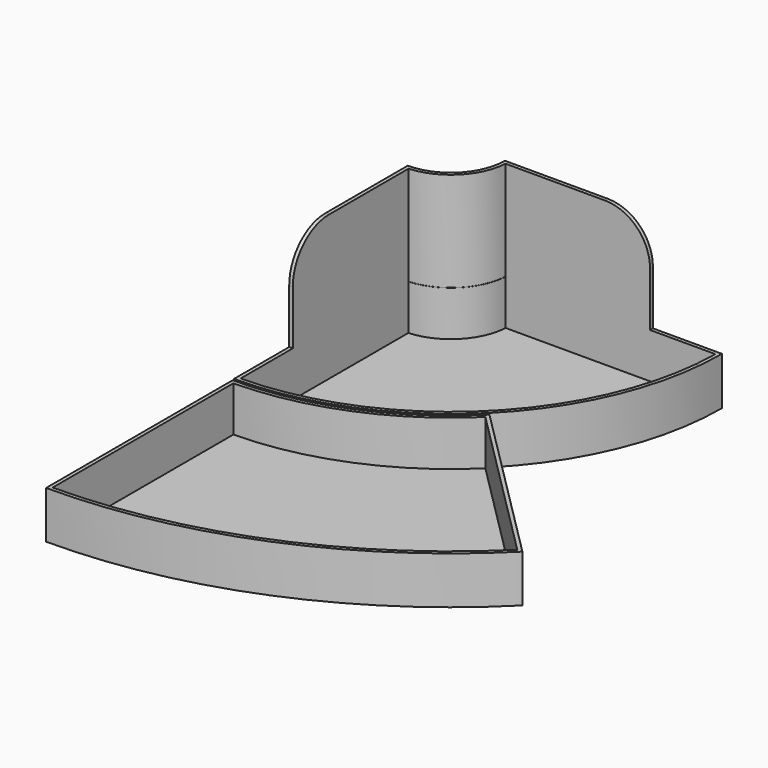
from build123d import *

# Parameters (mm, degrees)
F1_DEPTH = 1.5
F3_DEPTH = 25
F5_DEPTH = 1.2
F7_DEPTH = 25
F9_DEPTH = 80
F10_R    = 25


with BuildPart() as f1:
    # F0 (on Top) → F1 (new body)
    with BuildSketch(Plane.XY):
        with BuildLine():
            ThreePointArc((30, 200), (21.213203, 178.786797), (0, 170))
            Line((0, 170), (0, 50))
            ThreePointArc((0, 50), (106.066017, 93.933983), (150, 200))
            Line((150, 200), (30, 200))
        make_face()
    extrude(amount=F1_DEPTH)

    # F2 (on face) → F3 (join)
    with BuildSketch(Plane.XY.offset(1.5)):
        with BuildLine():
            ThreePointArc((30, 200), (21.213203, 178.786797), (0, 170))
            Line((0, 170), (0, 168))
            ThreePointArc((0, 168), (1.000489, 168.015644), (2, 168.062561))
            ThreePointArc((2, 168.062561), (22.627417, 177.372583), (31.937439, 198))
            ThreePointArc((31.937439, 198), (31.984356, 198.999511), (32, 200))
            Line((32, 200), (30, 200))
        make_face()
        with BuildLine():
            ThreePointArc((2, 168.062561), (1.000489, 168.015644), (0, 168))
            Line((0, 168), (0, 52))
            ThreePointArc((0, 52), (1.000023, 52.003379), (2, 52.013514))
            Line((2, 52.013514), (2, 168.062561))
        make_face()
        with BuildLine():
            Line((148, 200), (32, 200))
            ThreePointArc((32, 200), (31.984356, 198.999511), (31.937439, 198))
            Line((31.937439, 198), (147.986486, 198))
            ThreePointArc((147.986486, 198), (147.996621, 198.999977), (148, 200))
        make_face()
        with BuildLine():
            ThreePointArc((2, 52.013514), (1.000023, 52.003379), (0, 52))
            Line((0, 52), (0, 50))
            ThreePointArc((0, 50), (106.066017, 93.933983), (150, 200))
            Line((150, 200), (148, 200))
            ThreePointArc((148, 200), (147.996621, 198.999977), (147.986486, 198))
            ThreePointArc((147.986486, 198), (104.651804, 95.348196), (2, 52.013514))
        make_face()
    extrude(amount=F3_DEPTH)

    # F8 (on face) → F9 (join)
    with BuildSketch(Plane.XY.offset(1.5)):
        with BuildLine():
            ThreePointArc((29.878434, 200), (21.127243, 178.872757), (0, 170.121566))
            Line((0, 170.121566), (0, 168.121566))
            ThreePointArc((0, 168.121566), (1.000493, 168.13727), (2, 168.184366))
            ThreePointArc((2, 168.184366), (22.541457, 177.458543), (31.815634, 198))
            ThreePointArc((31.815634, 198), (31.86273, 198.999507), (31.878434, 200))
            Line((31.878434, 200), (29.878434, 200))
        make_face()
        with BuildLine():
            ThreePointArc((2, 168.184366), (1.000493, 168.13727), (0, 168.121566))
            Line((0, 168.121566), (0, 88.184366))
            Line((0, 88.184366), (2, 88.184366))
            Line((2, 88.184366), (2, 168.184366))
        make_face()
        with BuildLine():
            Line((111.815634, 200), (31.878434, 200))
            ThreePointArc((31.878434, 200), (31.86273, 198.999507), (31.815634, 198))
            Line((31.815634, 198), (111.815634, 198))
            Line((111.815634, 198), (111.815634, 200))
        make_face()
    extrude(amount=F9_DEPTH)

    # F10
    f10_edges = [f1.edges().sort_by_distance(p)[0] for p in [
        (111.815634, 199, 81.5),
        (1, 88.184366, 81.5),
    ]]
    fillet(f10_edges, radius=F10_R)


with BuildPart() as f5:
    # F4 (on Top) → F5 (new body)
    with BuildSketch(Plane.XY):
        with BuildLine():
            ThreePointArc((106.773124, 93.226876), (57.785198, 60.494191), (0, 49))
            Line((0, 49), (0, -80))
            ThreePointArc((0, -80), (107.151361, -58.686269), (197.989899, 2.010101))
            Line((197.989899, 2.010101), (106.773124, 93.226876))
        make_face()
    extrude(amount=F5_DEPTH)

    # F6 (on face) → F7 (join)
    with BuildSketch(Plane.XY.offset(1.2)):
        with BuildLine():
            ThreePointArc((106.773124, 93.226876), (57.785198, 60.494191), (0, 49))
            Line((0, 49), (0, 47))
            ThreePointArc((0, 47), (1.000021, 47.003268), (2, 47.013072))
            ThreePointArc((2, 47.013072), (58.550565, 58.646432), (106.76388, 90.407693))
            ThreePointArc((106.76388, 90.407693), (107.477905, 91.107852), (108.187338, 91.812662))
            Line((108.187338, 91.812662), (106.773124, 93.226876))
        make_face()
        with BuildLine():
            ThreePointArc((2, 47.013072), (1.000021, 47.003268), (0, 47))
            Line((0, 47), (0, -78))
            ThreePointArc((0, -78), (1.000006, -77.998201), (2, -77.992806))
            Line((2, -77.992806), (2, 47.013072))
        make_face()
        with BuildLine():
            Line((196.575685, 3.424315), (108.187338, 91.812662))
            ThreePointArc((108.187338, 91.812662), (107.477905, 91.107852), (106.76388, 90.407693))
            Line((106.76388, 90.407693), (195.156384, 2.015188))
            ThreePointArc((195.156384, 2.015188), (195.867302, 2.718475), (196.575685, 3.424315))
        make_face()
        with BuildLine():
            ThreePointArc((2, -77.992806), (1.000006, -77.998201), (0, -78))
            Line((0, -78), (0, -80))
            ThreePointArc((0, -80), (107.151361, -58.686269), (197.989899, 2.010101))
            Line((197.989899, 2.010101), (196.575685, 3.424315))
            ThreePointArc((196.575685, 3.424315), (195.867302, 2.718475), (195.156384, 2.015188))
            ThreePointArc((195.156384, 2.015188), (106.385994, -56.83851), (2, -77.992806))
        make_face()
    extrude(amount=F7_DEPTH)


solid = Compound([f1.part, f5.part])
